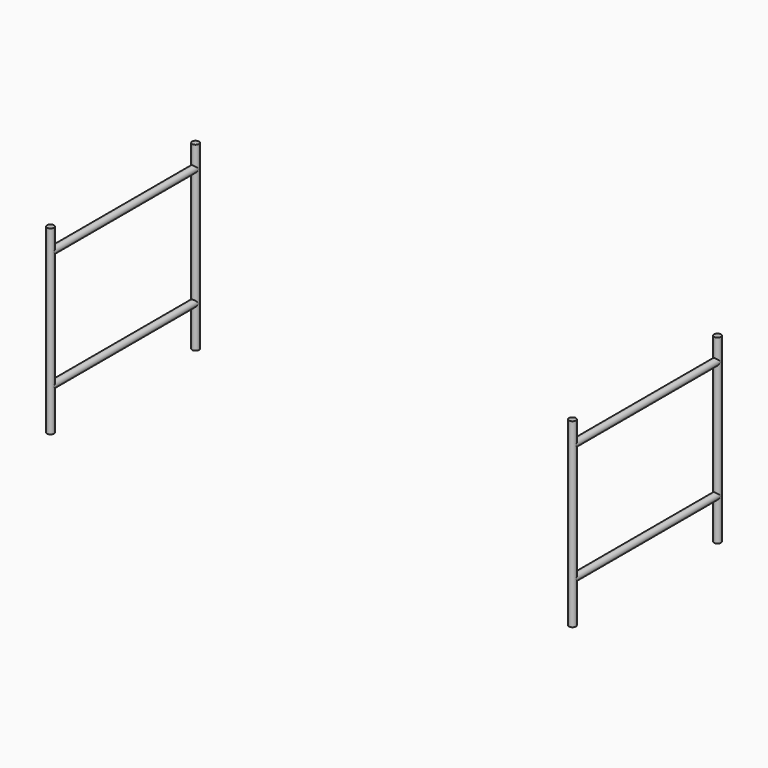
from build123d import *

# Parameters (mm, degrees)
F0_R     = 12.5
F1_DEPTH = 660
F2_R     = 12.5
F3_DEPTH = 660


with BuildPart() as f1:
    # F0 (on Top) → F1 (new body)
    with BuildSketch(Plane.XY):
        with Locations((-950, 0)):
            Circle(F0_R)
        with Locations((-950, -660)):
            Circle(F0_R)
        with Locations((950, -660)):
            Circle(F0_R)
        with Locations((950, 0)):
            Circle(F0_R)
    extrude(amount=F1_DEPTH)


with BuildPart() as f3:
    # F2 (on Front) → F3 (new body)
    with BuildSketch(Plane.XZ):
        with Locations((-950, 580)):
            Circle(F2_R)
        with Locations((-950, 150)):
            Circle(F2_R)
        with Locations((950, 580)):
            Circle(F2_R)
        with Locations((950, 150)):
            Circle(F2_R)
    extrude(amount=F3_DEPTH)


solid = Compound([f1.part, f3.part])
